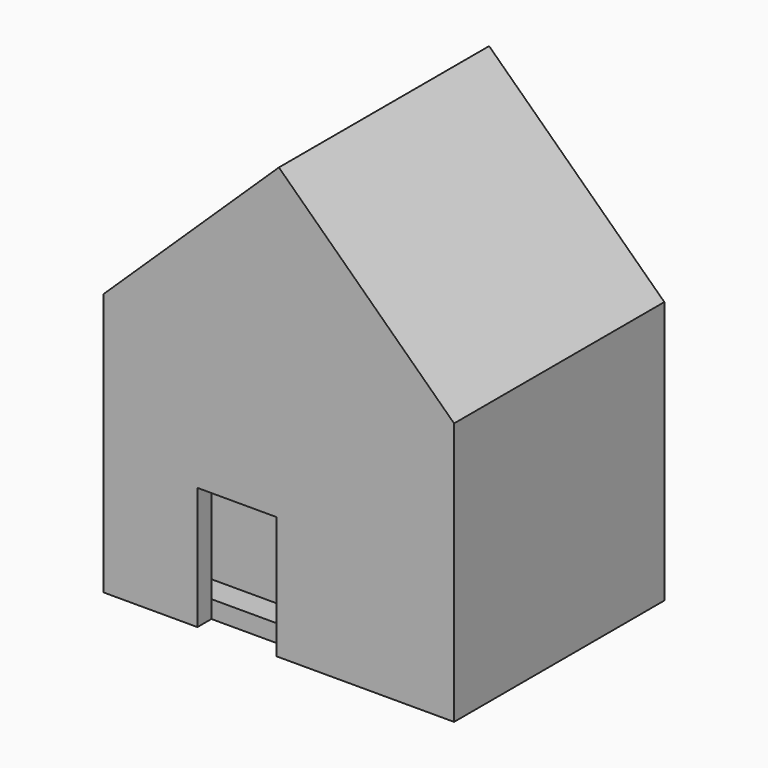
from build123d import *

# Parameters (mm, degrees)
F1_DEPTH = 30
F2_T     = -2
F3_W     = 9.0548824519
F3_H     = 13.9939039946
F4_DEPTH = 2
F5_DEPTH = 25


with BuildPart() as f1:
    # F0 (on Front) → F1 (new body)
    with BuildSketch(Plane.XZ):
        Polygon((0, 30), (0, 0), (40, 0), (40, 30), (20, 49.2188770223), align=None)
    extrude(amount=F1_DEPTH)

    # F2 (hollow: no face is removed)
    offset(amount=F2_T, mode=Mode.SUBTRACT)

    # F3 (on face) → F4 (cut)
    with BuildSketch(Plane.XZ.offset(30)):
        with Locations((15.2286598459, 6.9969519973)):
            Rectangle(F3_W, F3_H)
    extrude(amount=-F4_DEPTH, mode=Mode.SUBTRACT)

    # F0 (on Front) → F5 (join)
    with BuildSketch(Plane.XZ):
        Polygon((0, 30), (0, 0), (40, 0), (40, 30), (20, 49.2188770223), align=None)
    extrude(amount=F5_DEPTH)


solid = f1.part
